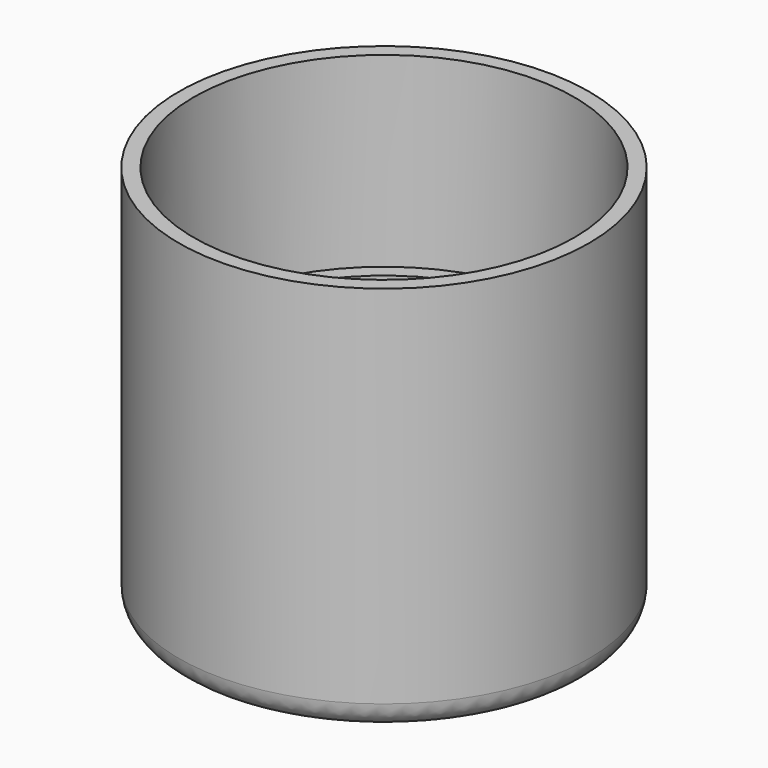
from build123d import *

# Parameters (mm, degrees)
F0_R     = 55
F0_R_2   = 51
F0_R_3   = 47
F1_DEPTH = 5
F2_DEPTH = 50
F3_DEPTH = 100
F4_R     = 7


with BuildPart() as f1:
    # F0 (on Top) → F1 (new body)
    with BuildSketch(Plane.XY):
        Circle(F0_R)
        Circle(F0_R_2, mode=Mode.SUBTRACT)
        Circle(F0_R_2)
        Circle(F0_R_3, mode=Mode.SUBTRACT)
        Circle(F0_R_3)
    extrude(amount=-F1_DEPTH)

    # F0 (on Top) → F2 (join)
    with BuildSketch(Plane.XY):
        Circle(F0_R_2)
        Circle(F0_R_3, mode=Mode.SUBTRACT)
    extrude(amount=F2_DEPTH)

    # F0 (on Top) → F3 (join)
    with BuildSketch(Plane.XY):
        Circle(F0_R)
        Circle(F0_R_2, mode=Mode.SUBTRACT)
    extrude(amount=F3_DEPTH)

    # F4
    f4_edges = [f1.edges().sort_by_distance(p)[0] for p in [
        (-55, 0, -5),
    ]]
    fillet(f4_edges, radius=F4_R)


solid = f1.part
